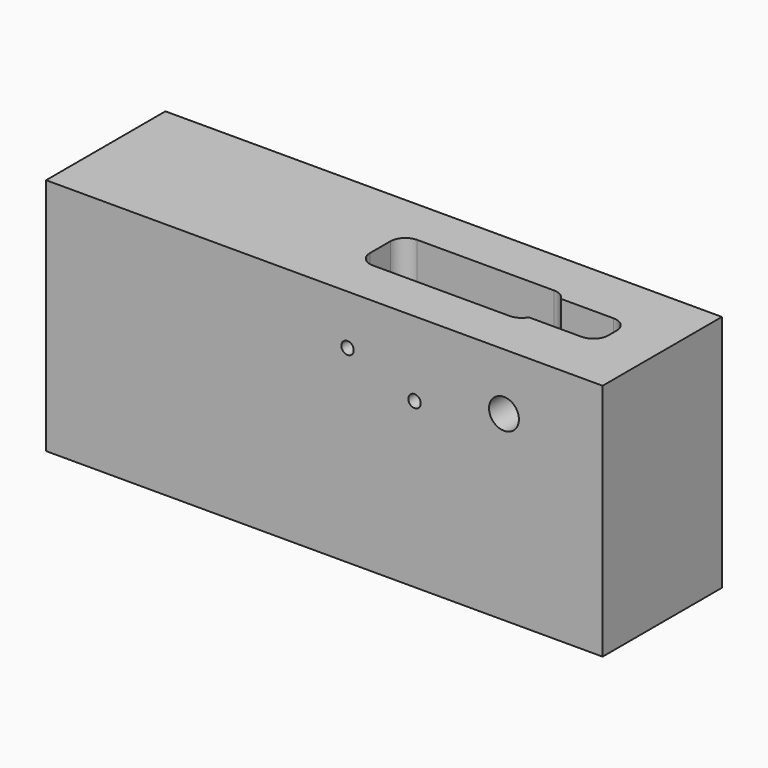
from build123d import *

# Parameters (mm, degrees)
F0_W          = 177.8
F0_H          = 47.6504
F1_DEPTH      = 69.85
F1_DEPTH_BACK = 6.35
F2_R          = 4.7752
F2_R_2        = 1.9812
F3_DEPTH      = 47.6514
F5_DEPTH      = 16.0528
F7_DEPTH      = 31.7246


with BuildPart() as f1:
    # F0 (on Top) → F1 (new body, two sides)
    with BuildSketch(Plane.XY) as f1_sk:
        with Locations((84.1375, 23.8252)):
            Rectangle(F0_W, F0_H)
    extrude(amount=-F1_DEPTH)
    extrude(f1_sk.sketch, amount=F1_DEPTH_BACK)

    # F2 (on Front) → F3 (cut, through all)
    with BuildSketch(Plane.XZ):
        with Locations((141.5288, -11.7856)):
            Circle(F2_R)
        with Locations((112.9538, -17.5006)):
            Circle(F2_R_2)
        with Locations((91.5416, -9.525)):
            Circle(F2_R_2)
    extrude(amount=-F3_DEPTH, mode=Mode.SUBTRACT)

    # F4 (on face) → F5 (cut)
    with BuildSketch(Plane.XY.offset(6.35)):
        with BuildLine():
            Line((131.3942, 32.60725), (87.6935, 32.60725))
            ThreePointArc((87.6935, 32.60725), (84.3259039546, 31.2123460454), (82.931, 27.84475))
            Line((82.931, 27.84475), (82.931, 19.71675))
            ThreePointArc((82.931, 19.71675), (84.3259039546, 16.3491539546), (87.6935, 14.95425))
            Line((87.6935, 14.95425), (131.3942, 14.95425))
            ThreePointArc((131.3942, 14.95425), (133.7975722402, 15.6051556468), (135.5439918032, 17.37995))
            Line((135.5439918032, 17.37995), (152.4, 17.37995))
            ThreePointArc((152.4, 17.37995), (155.7675960454, 18.7748539546), (157.1625, 22.14245))
            Line((157.1625, 22.14245), (157.1625, 25.41905))
            ThreePointArc((157.1625, 25.41905), (155.7675960454, 28.7866460454), (152.4, 30.18155))
            Line((152.4, 30.18155), (135.5439918032, 30.18155))
            ThreePointArc((135.5439918032, 30.18155), (133.7975722402, 31.9563443532), (131.3942, 32.60725))
        make_face()
    extrude(amount=-F5_DEPTH, mode=Mode.SUBTRACT)

    # F6 (on face) → F7 (cut)
    with BuildSketch(Plane.XY.offset(6.35)):
        with BuildLine():
            Line((143.1901861236, 28.50515), (136.1167005926, 28.50515))
            ThreePointArc((136.1167005926, 28.50515), (134.5364877315, 31.467947555), (131.3942, 32.6517))
            Line((131.3942, 32.6517), (87.6935, 32.6517))
            ThreePointArc((87.6935, 32.6517), (84.3259039546, 31.2567960454), (82.931, 27.8892))
            Line((82.931, 27.8892), (82.931, 19.7612))
            ThreePointArc((82.931, 19.7612), (84.3259039546, 16.3936039546), (87.6935, 14.9987))
            Line((87.6935, 14.9987), (131.3942, 14.9987))
            ThreePointArc((131.3942, 14.9987), (133.77545, 15.6367540145), (135.5186459855, 17.37995))
            Line((135.5186459855, 17.37995), (143.1937903656, 17.37995))
            ThreePointArc((143.1937903656, 17.37995), (146.5651768038, 18.7786486185), (147.9562782851, 22.1531768833))
            Line((147.9562782851, 22.1531768833), (147.9526740432, 23.7533768833))
            ThreePointArc((147.9526740432, 23.7533768833), (146.5539875051, 27.1140364382), (143.1901861236, 28.50515))
        make_face()
    extrude(amount=-F7_DEPTH, mode=Mode.SUBTRACT)


solid = f1.part
